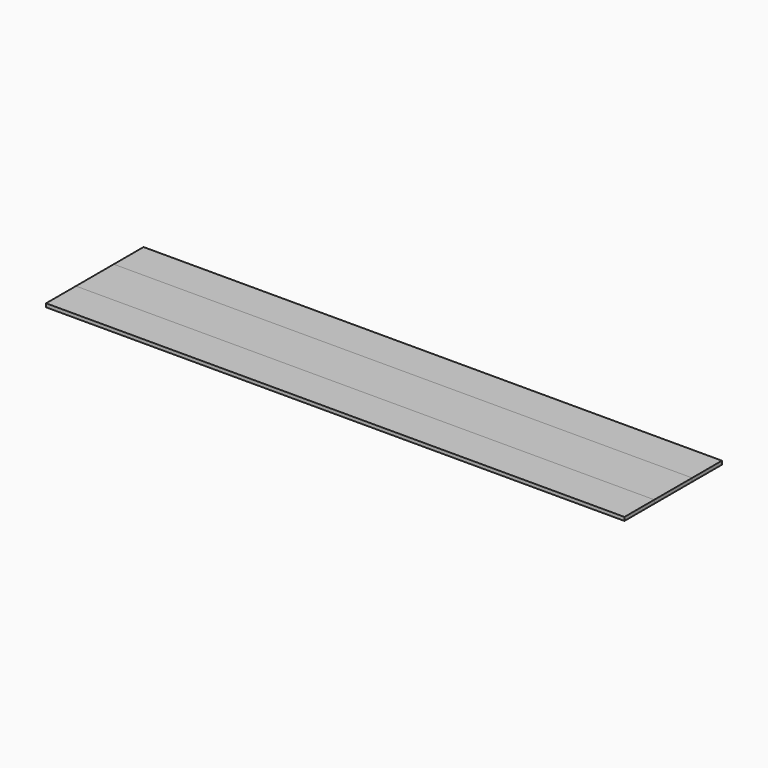
from build123d import *

# Parameters (mm, degrees)
F0_W     = 2445
F0_H     = 515
F1_DEPTH = 7.5
F2_W     = 2445
F2_H     = 200
F3_DEPTH = 7.5


with BuildPart() as f1:
    # F0 (on Top) → F1 (new body, symmetric)
    with BuildSketch(Plane.XY):
        Rectangle(F0_W, F0_H)
    extrude(amount=F1_DEPTH, both=True)


with BuildPart() as f3:
    # F2 (on Top) → F3 (new body, symmetric)
    with BuildSketch(Plane.XY):
        Rectangle(F2_W, F2_H)
    extrude(amount=F3_DEPTH, both=True)


solid = Compound([f1.part, f3.part])
